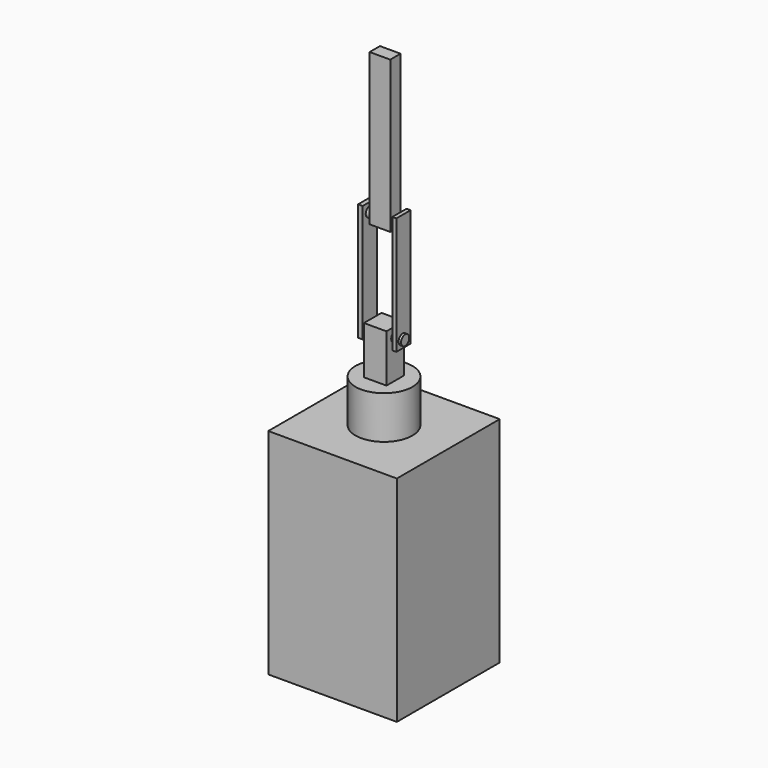
from build123d import *

# Parameters (mm, degrees)
F0_W          = 38.1
F0_H          = 38.1
F1_DEPTH      = 63.5
F2_R          = 8.4324133864
F3_DEPTH      = 12.7
F4_W          = 6.6846627742
F4_H          = 6.5082404763
F5_DEPTH      = 14.1638647765
F6_R          = 1.5124454646
F7_DEPTH      = 3.1696904916
F7_DEPTH_BACK = 9.6108838916
F9_START      = 4.3480005115
F8_W          = 5.255397642
F8_H          = 34.8232388496
F9_DEPTH      = 1.1912947521
F10_START     = -4.4385781512
F10_DEPTH     = 1.3572052121
F11_R         = 1.4972465524
F12_DEPTH     = 10.1209655404
F14_START     = -2.470415784
F13_W         = 3.8161192788
F13_H         = 44.9524968863
F14_DEPTH     = 6.1012294609


with BuildPart() as f1:
    # F0 (on Top) → F1 (new body)
    with BuildSketch(Plane.XY):
        Rectangle(F0_W, F0_H)
    extrude(amount=F1_DEPTH)

    # F2 (on face) → F3 (join)
    with BuildSketch(Plane.XY.offset(63.5)):
        Circle(F2_R)
    extrude(amount=F3_DEPTH)


with BuildPart() as f5:
    # F4 (on face) → F5 (new body)
    with BuildSketch(Plane.XY.offset(76.2)):
        Rectangle(F4_W, F4_H)
    extrude(amount=F5_DEPTH)

    # F6 (on face) → F7 (join, two sides)
    with BuildSketch(Plane(origin=(-3.3423313871, 0, 0), x_dir=(0, -1, 0), z_dir=(-1, 0, 0))) as f7_sk:
        with Locations((0, 87.6921564341)):
            Circle(F6_R)
    extrude(amount=F7_DEPTH)
    extrude(f7_sk.sketch, amount=-F7_DEPTH_BACK)

    # F8 (on Right) → F10 (join)
    with BuildSketch(Plane.YZ.offset(F10_START)):
        with Locations((0.2771640429, 102.7572005987)):
            Rectangle(F8_W, F8_H)
    extrude(amount=-F10_DEPTH)


with BuildPart() as f9:
    # F8 (on Right) → F9 (new body)
    with BuildSketch(Plane.YZ.offset(F9_START)):
        with Locations((0.2771640429, 102.7572005987)):
            Rectangle(F8_W, F8_H)
    extrude(amount=F9_DEPTH)

    # F11 (on face) → F12 (join)
    with BuildSketch(Plane.YZ.offset(5.5392952636)):
        with Locations((0.2771640429, 117.6335960627)):
            Circle(F11_R)
    extrude(amount=-F12_DEPTH)


with BuildPart() as f14:
    # F13 (on face) → F14 (new body)
    with BuildSketch(Plane.YZ.offset(5.5392952636).offset(F14_START)):
        with Locations((0.3887154744, 137.9730328918)):
            Rectangle(F13_W, F13_H)
    extrude(amount=-F14_DEPTH)


solid = Compound([f1.part, f5.part, f9.part, f14.part])
